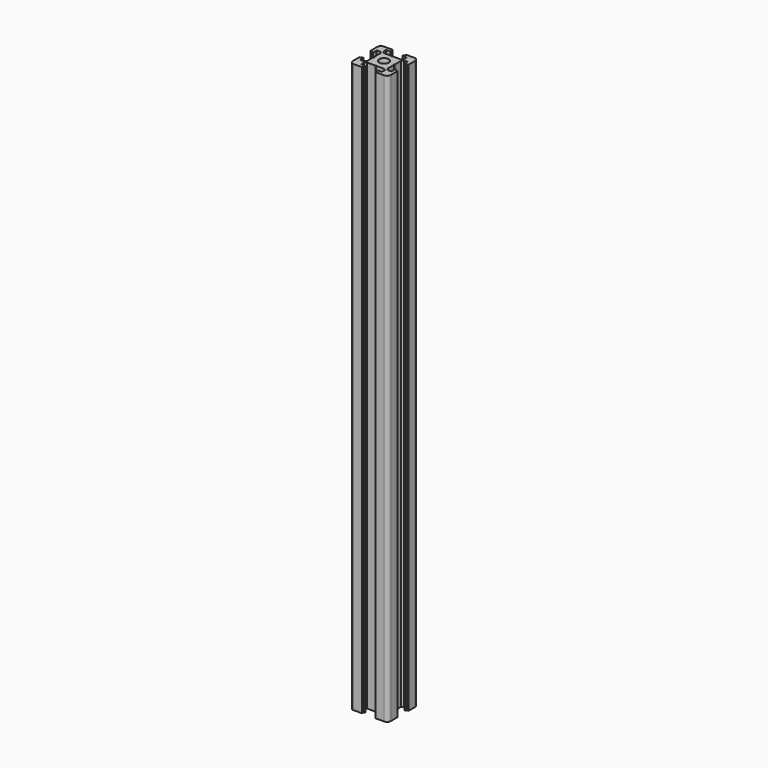
from build123d import *

# Parameters (mm, degrees)
F0_R     = 2.5
F1_DEPTH = 300


with BuildPart() as f1:
    # F0 (on Top) → F1 (new body)
    with BuildSketch(Plane.XY):
        with BuildLine():
            ThreePointArc((10, 8), (9.414214, 9.414214), (8, 10))
            Line((8, 10), (3.6, 10))
            Line((3.6, 10), (3.6, 9.1))
            Line((3.6, 9.1), (3.1, 9.1))
            Line((3.1, 9.1), (3.1, 8.2))
            Line((3.1, 8.2), (5.45, 8.2))
            Line((5.45, 8.2), (5.45, 6.298528))
            Line((5.45, 6.298528), (4.579818, 5.428346))
            Line((4.579818, 5.428346), (0.25, 5.428346))
            Line((0.25, 5.428346), (0, 4.928346))
            Line((0, 4.928346), (-0.25, 5.428346))
            Line((-0.25, 5.428346), (-4.579818, 5.428346))
            Line((-4.579818, 5.428346), (-5.45, 6.298528))
            Line((-5.45, 6.298528), (-5.45, 8.2))
            Line((-5.45, 8.2), (-3.1, 8.2))
            Line((-3.1, 8.2), (-3.1, 9.1))
            Line((-3.1, 9.1), (-3.6, 9.1))
            Line((-3.6, 9.1), (-3.6, 10))
            Line((-3.6, 10), (-8, 10))
            ThreePointArc((-8, 10), (-9.414214, 9.414214), (-10, 8))
            Line((-10, 8), (-10, 3.6))
            Line((-10, 3.6), (-9.1, 3.6))
            Line((-9.1, 3.6), (-9.1, 3.1))
            Line((-9.1, 3.1), (-8.2, 3.1))
            Line((-8.2, 3.1), (-8.2, 5.45))
            Line((-8.2, 5.45), (-6.298528, 5.45))
            Line((-6.298528, 5.45), (-5.428346, 4.579818))
            Line((-5.428346, 4.579818), (-5.428346, 0.25))
            Line((-5.428346, 0.25), (-4.928346, 0))
            Line((-4.928346, 0), (-5.428346, -0.25))
            Line((-5.428346, -0.25), (-5.428346, -4.579818))
            Line((-5.428346, -4.579818), (-6.298528, -5.45))
            Line((-6.298528, -5.45), (-8.2, -5.45))
            Line((-8.2, -5.45), (-8.2, -3.1))
            Line((-8.2, -3.1), (-9.1, -3.1))
            Line((-9.1, -3.1), (-9.1, -3.6))
            Line((-9.1, -3.6), (-10, -3.6))
            Line((-10, -3.6), (-10, -8))
            ThreePointArc((-10, -8), (-9.414214, -9.414214), (-8, -10))
            Line((-8, -10), (-3.6, -10))
            Line((-3.6, -10), (-3.6, -9.1))
            Line((-3.6, -9.1), (-3.1, -9.1))
            Line((-3.1, -9.1), (-3.1, -8.2))
            Line((-3.1, -8.2), (-5.45, -8.2))
            Line((-5.45, -8.2), (-5.45, -6.298528))
            Line((-5.45, -6.298528), (-4.579818, -5.428346))
            Line((-4.579818, -5.428346), (-0.25, -5.428346))
            Line((-0.25, -5.428346), (0, -4.928346))
            Line((0, -4.928346), (0.25, -5.428346))
            Line((0.25, -5.428346), (4.579818, -5.428346))
            Line((4.579818, -5.428346), (5.45, -6.298528))
            Line((5.45, -6.298528), (5.45, -8.2))
            Line((5.45, -8.2), (3.1, -8.2))
            Line((3.1, -8.2), (3.1, -9.1))
            Line((3.1, -9.1), (3.6, -9.1))
            Line((3.6, -9.1), (3.6, -10))
            Line((3.6, -10), (8, -10))
            ThreePointArc((8, -10), (9.414214, -9.414214), (10, -8))
            Line((10, -8), (10, -3.6))
            Line((10, -3.6), (9.1, -3.6))
            Line((9.1, -3.6), (9.1, -3.1))
            Line((9.1, -3.1), (8.2, -3.1))
            Line((8.2, -3.1), (8.2, -5.45))
            Line((8.2, -5.45), (6.298528, -5.45))
            Line((6.298528, -5.45), (5.428346, -4.579818))
            Line((5.428346, -4.579818), (5.428346, -0.25))
            Line((5.428346, -0.25), (4.928346, 0))
            Line((4.928346, 0), (5.428346, 0.25))
            Line((5.428346, 0.25), (5.428346, 4.579818))
            Line((5.428346, 4.579818), (6.298528, 5.45))
            Line((6.298528, 5.45), (8.2, 5.45))
            Line((8.2, 5.45), (8.2, 3.1))
            Line((8.2, 3.1), (9.1, 3.1))
            Line((9.1, 3.1), (9.1, 3.6))
            Line((9.1, 3.6), (10, 3.6))
            Line((10, 3.6), (10, 8))
        make_face()
        Circle(F0_R, mode=Mode.SUBTRACT)
    extrude(amount=F1_DEPTH)


solid = f1.part
